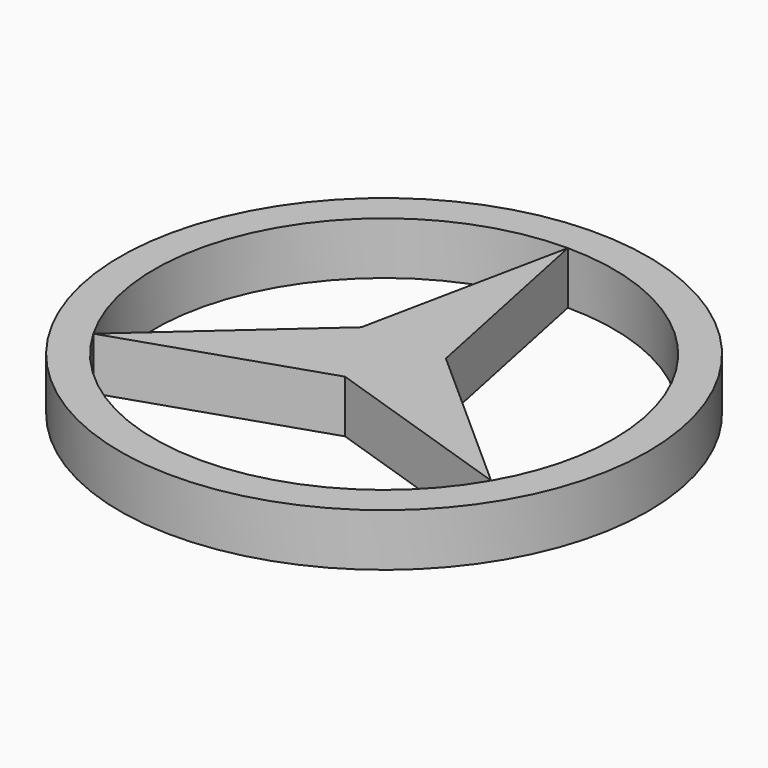
from build123d import *

# Parameters (mm, degrees)
F0_R     = 11.55
F1_DEPTH = 2.3


with BuildPart() as f1:
    # F0 (on Top) → F1 (new body)
    with BuildSketch(Plane.XY):
        Circle(F0_R)
        with BuildLine():
            ThreePointArc((0, 10.05), (7.106423, 7.106423), (10.05, 0))
            ThreePointArc((10.05, 0), (9.707555, -2.601131), (8.703555, -5.025))
            ThreePointArc((8.703555, -5.025), (0, -10.05), (-8.703555, -5.025))
            ThreePointArc((-8.703555, -5.025), (-8.703555, 5.025), (0, 10.05))
        make_face(mode=Mode.SUBTRACT)
        Polygon((1.85, 1.068098), (0, 10.05), (-1.85, 1.068098), (-8.703555, -5.025), (0, -2.136196), (8.703555, -5.025), align=None)
    extrude(amount=F1_DEPTH)


solid = f1.part
